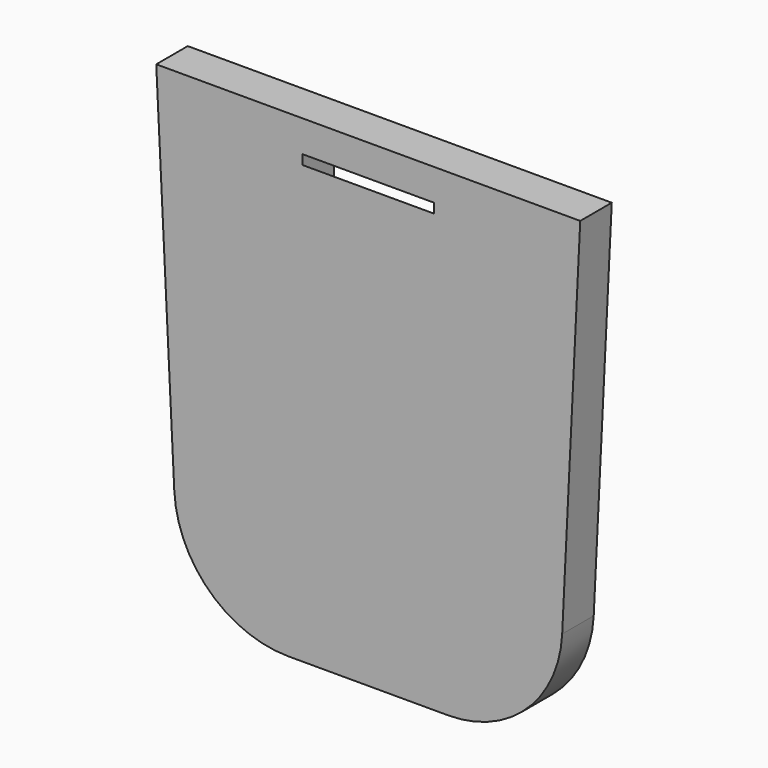
from build123d import *

# Parameters (mm, degrees)
F1_DEPTH = 3
F3_DEPTH = 5


with BuildPart() as f1:
    # F0 (on Front) → F1 (new body)
    with BuildSketch(Plane.XZ):
        with BuildLine():
            Line((-16.134905, 15.309577), (-14.761389, -12.814802))
            ThreePointArc((-14.761389, -12.814802), (-12.071658, -18.690508), (-6.071745, -21.090425))
            Line((-6.071745, -21.090425), (6.071745, -21.090425))
            ThreePointArc((6.071745, -21.090425), (12.071658, -18.690508), (14.761389, -12.814802))
            Line((14.761389, -12.814802), (16.134905, 15.309577))
            Line((16.134905, 15.309577), (-16.134905, 15.309577))
        make_face()
    extrude(amount=F1_DEPTH)

    # F2 (on Right) → F3 (cut, symmetric)
    with BuildSketch(Plane.YZ):
        Polygon((-3.625716, 12.909577), (0.1, 8.562908), (0.1, 12.909577), align=None)
    extrude(amount=F3_DEPTH, both=True, mode=Mode.SUBTRACT)


solid = f1.part
